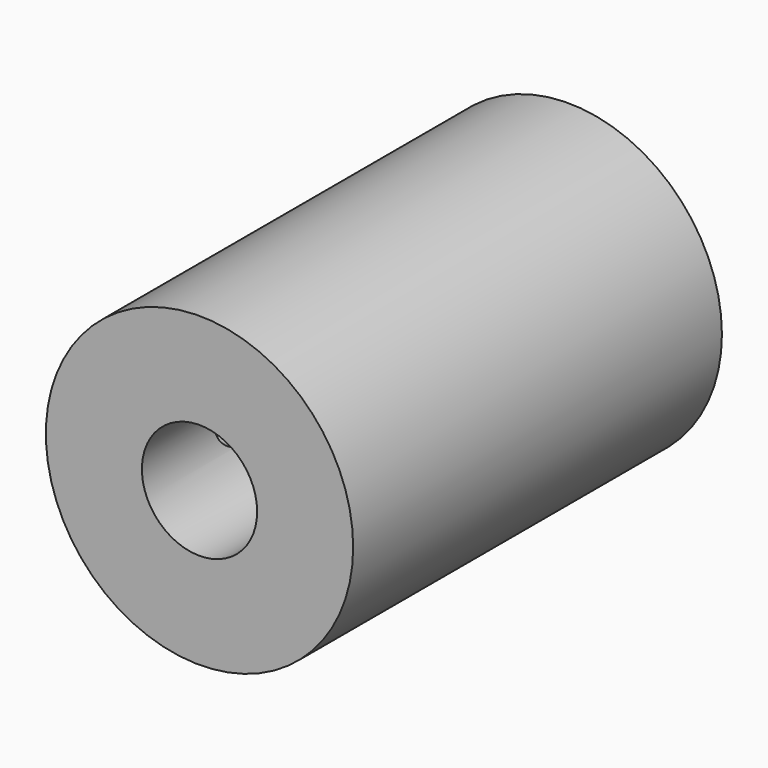
from build123d import *

# Parameters (mm, degrees)
F0_R     = 8
F1_DEPTH = 24
F2_R     = 3
F3_DEPTH = 24.001
F5_D     = 2.5
F5_DEPTH = 8.001
F7_D     = 2.5
F7_DEPTH = 8.0010001


with BuildPart() as f1:
    # F0 (on Front) → F1 (new body)
    with BuildSketch(Plane.XZ):
        Circle(F0_R)
    extrude(amount=F1_DEPTH)

    # F2 (on Front) → F3 (cut, through all)
    with BuildSketch(Plane.XZ):
        Circle(F2_R)
    extrude(amount=F3_DEPTH, mode=Mode.SUBTRACT)

    # F5 (through all, one way)
    with BuildSketch(Plane.YZ):
        with Locations((-18, 0), (-6, 0)):
            Circle(F5_D / 2)
    extrude(amount=-F5_DEPTH, mode=Mode.SUBTRACT)

    # F7 (through all, one way)
    with BuildSketch(Plane.XY):
        with Locations((0, -18), (0, -6)):
            Circle(F7_D / 2)
    extrude(amount=-F7_DEPTH, mode=Mode.SUBTRACT)


solid = f1.part
